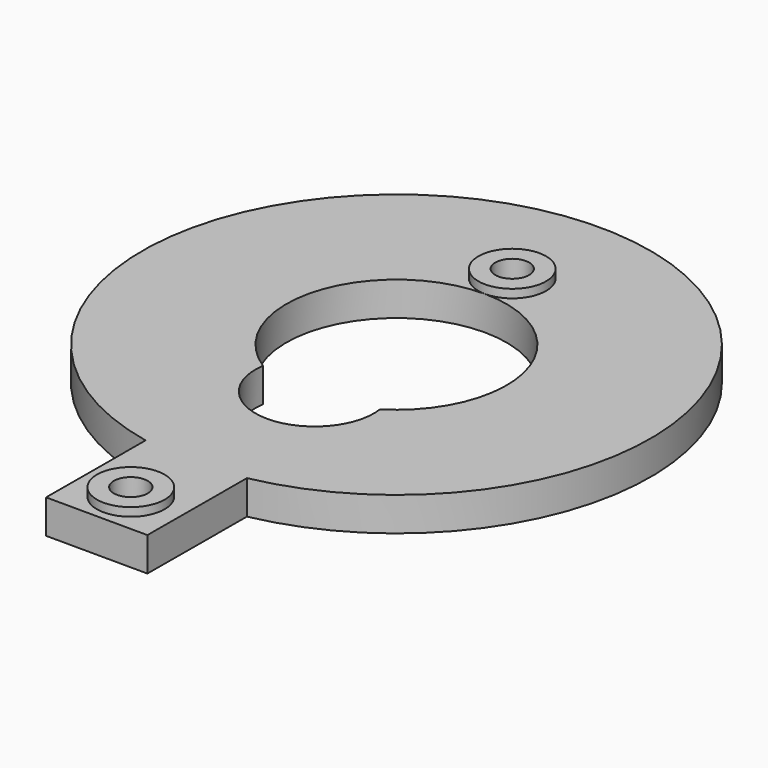
from build123d import *

# Parameters (mm, degrees)
CYLINDER003001001005001001_R     = 3.5
CYLINDER003001001005001001_DEPTH = 2
CYLINDER003001001004002_R        = 1
CYLINDER003001001004002_DEPTH    = 5
CYLINDER003001001004001001_R     = 1
CYLINDER003001001004001001_DEPTH = 5
CYLINDER003001001005001_R        = 6.5
CYLINDER003001001005001_DEPTH    = 2
BOX002_W                         = 10
BOX002_H                         = 6
BOX002_DEPTH                     = 2
CYLINDER003001001004_R           = 2
CYLINDER003001001004_DEPTH       = 0.5
CYLINDER003001001004001_R        = 2
CYLINDER003001001004001_DEPTH    = 0.5
CYLINDER003001001005_R           = 15
CYLINDER003001001005_DEPTH       = 2
CUT002_ROLL_ANGLE                = 180
CUT002_PLACEMENT_ANGLE           = -90.233929


with BuildPart() as cylinder013:
    # Cylinder003001001005001001 → Cylinder003001001005001001 (new body)
    with BuildSketch(Plane(origin=(12, 6, 21), x_dir=(1, 0, 0), z_dir=(0, 0, 1))):
        Circle(CYLINDER003001001005001001_R)
    extrude(amount=CYLINDER003001001005001001_DEPTH)


with BuildPart() as cylinder014:
    # Cylinder003001001004002 → Cylinder003001001004002 (new body)
    with BuildSketch(Plane(origin=(-2.5, 6, 19.5), x_dir=(1, 0, 0), z_dir=(0, 0, 1))):
        Circle(CYLINDER003001001004002_R)
    extrude(amount=CYLINDER003001001004002_DEPTH)


with BuildPart() as cylinder015:
    # Cylinder003001001004001001 → Cylinder003001001004001001 (new body)
    with BuildSketch(Plane(origin=(25.5, 6, 19.5), x_dir=(1, 0, 0), z_dir=(0, 0, 1))):
        Circle(CYLINDER003001001004001001_R)
    extrude(amount=CYLINDER003001001004001001_DEPTH)


with BuildPart() as fusion009:
    # Cylinder003001001005001 → Cylinder003001001005001 (new body)
    with BuildSketch(Plane(origin=(6, 6, 21), x_dir=(1, 0, 0), z_dir=(0, 0, 1))):
        Circle(CYLINDER003001001005001_R)
    extrude(amount=CYLINDER003001001005001_DEPTH)

    # Fusion009: union Cylinder013, Cylinder014, Cylinder015
    add(cylinder013.part)
    add(cylinder014.part)
    add(cylinder015.part)


with BuildPart() as box002:
    # Box002 → Box002 (new body)
    with BuildSketch(Plane(origin=(18, 3, 21), x_dir=(1, 0, 0), z_dir=(0, 0, 1))):
        with Locations((5, 3)):
            Rectangle(BOX002_W, BOX002_H)
    extrude(amount=BOX002_DEPTH)


with BuildPart() as cylinder003001001004:
    # Cylinder003001001004 → Cylinder003001001004 (new body)
    with BuildSketch(Plane(origin=(-2.5, 6, 20.5), x_dir=(1, 0, 0), z_dir=(0, 0, 1))):
        Circle(CYLINDER003001001004_R)
    extrude(amount=CYLINDER003001001004_DEPTH)


with BuildPart() as cylinder010:
    # Cylinder003001001004001 → Cylinder003001001004001 (new body)
    with BuildSketch(Plane(origin=(25.5, 6, 20.5), x_dir=(1, 0, 0), z_dir=(0, 0, 1))):
        Circle(CYLINDER003001001004001_R)
    extrude(amount=CYLINDER003001001004001_DEPTH)


with BuildPart() as guide1:
    # Cylinder003001001005 → Cylinder003001001005 (new body)
    with BuildSketch(Plane(origin=(6, 6, 21), x_dir=(1, 0, 0), z_dir=(0, 0, 1))):
        Circle(CYLINDER003001001005_R)
    extrude(amount=CYLINDER003001001005_DEPTH)

    # Fusion008: union Box002, Cylinder003001001004, Cylinder010
    add(box002.part)
    add(cylinder003001001004.part)
    add(cylinder010.part)

    # Cut002: cut Fusion009
    add(fusion009.part, mode=Mode.SUBTRACT)


with BuildPart() as guide1_1:
    # Cut002 roll: moved
    add(guide1.part.rotate(Axis((0, 0, 0), (1, 0, 0)), CUT002_ROLL_ANGLE))


with BuildPart() as guide1_2:
    # Cut002 placement: moved
    add(guide1_1.part.moved(Location((80, 36, 62))).rotate(Axis((80, 36, 62), (0, 0, 1)), CUT002_PLACEMENT_ANGLE))


solid = guide1_2.part
